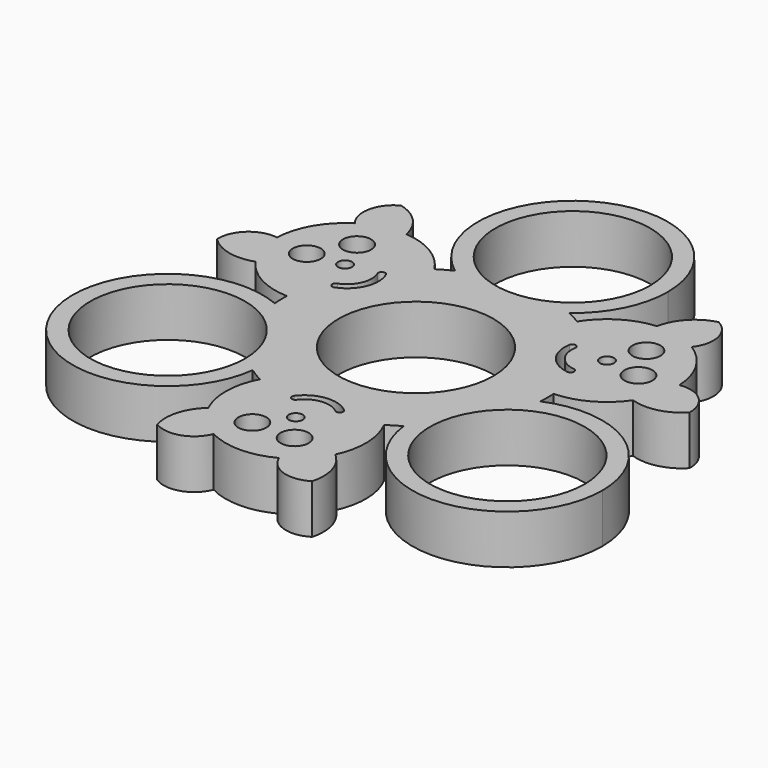
from build123d import *

# Parameters (mm, degrees)
F0_R     = 11.05
F0_R_2   = 1
F0_R_3   = 2
F1_DEPTH = 7


with BuildPart() as f1:
    # F0 (on Top) → F1 (new body)
    with BuildSketch(Plane.XY):
        with BuildLine():
            ThreePointArc((-8.1567643089, 17.1600465037), (0, 14.4299215496), (8.1567643089, 17.1600465037))
            ThreePointArc((8.1567643089, 17.1600465037), (12.1269669824, 21.9351575503), (13.55, 27.9799215496))
            ThreePointArc((13.55, 27.9799215496), (-6.0447639993, 40.106888532), (-8.1567643089, 17.1600465037))
        make_face()
        with Locations((0, 27.9799215496)):
            Circle(F0_R, mode=Mode.SUBTRACT)
        with BuildLine():
            ThreePointArc((37.7813228578, -13.9899607748), (31.7112023358, -2.6915581003), (18.9394183568, -1.5160581476))
            ThreePointArc((18.9394183568, -1.5160581476), (12.4966786365, -7.2149607748), (10.7826540478, -15.6439883561))
            ThreePointArc((10.7826540478, -15.6439883561), (25.0598871658, -27.5146042521), (37.7813228578, -13.9899607748))
        make_face()
        with Locations((24.2313228578, -13.9899607748)):
            Circle(F0_R, mode=Mode.SUBTRACT)
        with BuildLine():
            ThreePointArc((-18.9394183568, -1.5160581476), (-35.9659670791, -20.7649607748), (-10.7826540478, -15.6439883561))
            ThreePointArc((-10.7826540478, -15.6439883561), (-10.7066793805, -14.8185250827), (-10.6813228578, -13.9899607748))
            ThreePointArc((-10.6813228578, -13.9899607748), (-12.9329201833, -6.5100812968), (-18.9394183568, -1.5160581476))
        make_face()
        with Locations((-24.2313228578, -13.9899607748)):
            Circle(F0_R, mode=Mode.SUBTRACT)
        with BuildLine():
            ThreePointArc((4.7600365071, -12.6863924128), (11.1377958922, -7.7169944062), (13.55, 0))
            ThreePointArc((13.55, 0), (13.5004224782, 1.1580556593), (13.352052707, 2.3076369968))
            ThreePointArc((13.352052707, 2.3076369968), (11.7125847278, 6.8130653155), (8.6067198583, 10.4655087445))
            ThreePointArc((8.6067198583, 10.4655087445), (-0.0439952769, 13.549928576), (-8.6744986155, 10.4093983385))
            ThreePointArc((-8.6744986155, 10.4093983385), (-11.7565800048, 6.7368632605), (-13.3667563654, 2.2208836683))
            ThreePointArc((-13.3667563654, 2.2208836683), (-11.7125847278, -6.8130653155), (-4.6775540916, -12.7170353353))
            ThreePointArc((-4.6775540916, -12.7170353353), (0.0439952769, -13.549928576), (4.7600365071, -12.6863924128))
        make_face()
        Circle(F0_R, mode=Mode.SUBTRACT)
        with BuildLine():
            ThreePointArc((-8.7748548257, -16.8523565945), (-7.0337804641, -14.4799478416), (-4.6775540916, -12.7170353353))
            ThreePointArc((-4.6775540916, -12.7170353353), (-11.7125847278, -6.8130653155), (-13.3667563654, 2.2208836683))
            ThreePointArc((-13.3667563654, 2.2208836683), (-16.0640126782, 1.044247953), (-18.9869659815, 0.7036496412))
            ThreePointArc((-18.9869659815, 0.7036496412), (-18.9956424716, -0.4068993604), (-18.9394183568, -1.5160581476))
            ThreePointArc((-18.9394183568, -1.5160581476), (-12.9329201833, -6.5100812968), (-10.6813228578, -13.9899607748))
            ThreePointArc((-10.6813228578, -13.9899607748), (-10.7066793805, -14.8185250827), (-10.7826540478, -15.6439883561))
            ThreePointArc((-10.7826540478, -15.6439883561), (-9.7974015323, -16.2791560965), (-8.7748548257, -16.8523565945))
        make_face()
        with BuildLine():
            ThreePointArc((-8.6744986155, 10.4093983385), (-0.0439952769, 13.549928576), (8.6067198583, 10.4655087445))
            ThreePointArc((8.6067198583, 10.4655087445), (8.9363515943, 13.3897190895), (10.1028614554, 16.0913700602))
            ThreePointArc((10.1028614554, 16.0913700602), (9.1454360529, 16.6541586219), (8.1567643089, 17.1600465037))
            ThreePointArc((8.1567643089, 17.1600465037), (0, 14.4299215496), (-8.1567643089, 17.1600465037))
            ThreePointArc((-8.1567643089, 17.1600465037), (-9.1994619657, 16.6243766663), (-10.2071415116, 16.0254254908))
            ThreePointArc((-10.2071415116, 16.0254254908), (-9.0231124442, 13.3314064874), (-8.6744986155, 10.4093983385))
        make_face()
        with BuildLine():
            ThreePointArc((13.352052707, 2.3076369968), (13.5004224782, 1.1580556593), (13.55, 0))
            ThreePointArc((13.55, 0), (11.1377958922, -7.7169944062), (4.7600365071, -12.6863924128))
            ThreePointArc((4.7600365071, -12.6863924128), (7.1276610839, -14.4339670425), (8.8841045261, -16.7950197013))
            ThreePointArc((8.8841045261, -16.7950197013), (9.8502064187, -16.2472592614), (10.7826540478, -15.6439883561))
            ThreePointArc((10.7826540478, -15.6439883561), (12.4966786365, -7.2149607748), (18.9394183568, -1.5160581476))
            ThreePointArc((18.9394183568, -1.5160581476), (18.9968634979, -0.3452205697), (18.9819963373, 0.8269311037))
            ThreePointArc((18.9819963373, 0.8269311037), (16.0568929083, 1.1485413542), (13.352052707, 2.3076369968))
        make_face()
        with BuildLine():
            ThreePointArc((8.6067198583, 10.4655087445), (11.7125847278, 6.8130653155), (13.352052707, 2.3076369968))
            ThreePointArc((13.352052707, 2.3076369968), (16.0568929083, 1.1485413542), (18.9819963373, 0.8269311037))
            ThreePointArc((18.9819963373, 0.8269311037), (23.4304012279, 2.0634206387), (26.8491945381, 5.1664940737))
            ThreePointArc((26.8491945381, 5.1664940737), (28.2136339107, 8.0652639574), (28.5913217984, 11.246759439))
            ThreePointArc((28.5913217984, 11.246759439), (27.2444210774, 15.8477419457), (23.9108601236, 19.2931088268))
            ThreePointArc((23.9108601236, 19.2931088268), (20.9586164714, 20.5376244184), (17.7643170713, 20.7846324805))
            ThreePointArc((17.7643170713, 20.7846324805), (13.3768238274, 19.3468858147), (10.1028614554, 16.0913700602))
            ThreePointArc((10.1028614554, 16.0913700602), (8.9363515943, 13.3897190895), (8.6067198583, 10.4655087445))
        make_face()
        with BuildLine():
            ThreePointArc((12.9505363993, 11.1563030517), (13.5264237307, 11.5666124247), (13.9367331037, 10.9907250933))
            ThreePointArc((13.9367331037, 10.9907250933), (14.5872544025, 8.309022028), (16.9762482984, 6.9279291798))
            ThreePointArc((16.9762482984, 6.9279291798), (17.4128850212, 6.3717382302), (16.8566940716, 5.9351015075))
            ThreePointArc((16.8566940716, 5.9351015075), (13.7865377349, 7.7099787756), (12.9505363993, 11.1563030517))
        make_face(mode=Mode.SUBTRACT)
        with Locations((18.6004471086, 10.8196494619)):
            Circle(F0_R_2, mode=Mode.SUBTRACT)
        with Locations((23.5651301856, 10.2264193675)):
            Circle(F0_R_3, mode=Mode.SUBTRACT)
        with Locations((20.539148591, 15.4284927617)):
            Circle(F0_R_3, mode=Mode.SUBTRACT)
        with BuildLine():
            ThreePointArc((28.5913217984, 11.246759439), (28.2136339107, 8.0652639574), (26.8491945381, 5.1664940737))
            ThreePointArc((26.8491945381, 5.1664940737), (30.4593772075, 4.9963032192), (33.5974550448, 6.789303866))
            ThreePointArc((33.5974550448, 6.789303866), (32.1424199084, 10.1950675609), (28.5913217984, 11.246759439))
        make_face()
        with BuildLine():
            ThreePointArc((22.5110596529, 25.8483234616), (19.4011285413, 24.00693477), (17.7643170713, 20.7846324805))
            ThreePointArc((17.7643170713, 20.7846324805), (20.9586164714, 20.5376244184), (23.9108601236, 19.2931088268))
            ThreePointArc((23.9108601236, 19.2931088268), (24.7522139126, 22.8998355139), (22.5110596529, 25.8483234616))
        make_face()
        with BuildLine():
            ThreePointArc((-13.3667563654, 2.2208836683), (-11.7565800048, 6.7368632605), (-8.6744986155, 10.4093983385))
            ThreePointArc((-8.6744986155, 10.4093983385), (-9.0231124442, 13.3314064874), (-10.2071415116, 16.0254254908))
            ThreePointArc((-10.2071415116, 16.0254254908), (-13.5021753057, 19.2596123649), (-17.8989123854, 20.6688375043))
            ThreePointArc((-17.8989123854, 20.6688375043), (-21.0915404306, 20.401091721), (-24.0356402836, 19.1374312857))
            ThreePointArc((-24.0356402836, 19.1374312857), (-27.3467576563, 15.6704897916), (-28.6637524238, 11.06085788))
            ThreePointArc((-28.6637524238, 11.06085788), (-28.2654127155, 7.8818820832), (-26.8821782721, 4.9920336244))
            ThreePointArc((-26.8821782721, 4.9920336244), (-23.4433065133, 1.9112263491), (-18.9869659815, 0.7036496412))
            ThreePointArc((-18.9869659815, 0.7036496412), (-16.0640126782, 1.044247953), (-13.3667563654, 2.2208836683))
        make_face()
        with Locations((-23.6310409692, 10.0731780711)):
            Circle(F0_R_3, mode=Mode.SUBTRACT)
        with Locations((-20.6389040547, 15.2947917005)):
            Circle(F0_R_3, mode=Mode.SUBTRACT)
        with BuildLine():
            ThreePointArc((-13.5682957153, 11.6307745361), (-13.5703063498, 8.0845025208), (-16.1369100547, 5.6373419886))
            ThreePointArc((-16.1369100547, 5.6373419886), (-16.7801920608, 5.9309203608), (-16.4866136886, 6.5742023669))
            ThreePointArc((-16.4866136886, 6.5742023669), (-14.4894513581, 8.47842187), (-14.4878868145, 11.2378976975))
            ThreePointArc((-14.4878868145, 11.2378976975), (-14.2245296842, 11.8941316664), (-13.5682957153, 11.6307745361))
        make_face(mode=Mode.SUBTRACT)
        with Locations((-18.6703148483, 10.6986349868)):
            Circle(F0_R_2, mode=Mode.SUBTRACT)
        with BuildLine():
            ThreePointArc((-24.0356402836, 19.1374312857), (-21.0915404306, 20.401091721), (-17.8989123854, 20.6688375043))
            ThreePointArc((-17.8989123854, 20.6688375043), (-19.5566141165, 23.8804428355), (-22.6784371444, 25.7015976383))
            ThreePointArc((-22.6784371444, 25.7015976383), (-24.9003974552, 22.7386183993), (-24.0356402836, 19.1374312857))
        make_face()
        with BuildLine():
            ThreePointArc((-33.6408345895, 6.5709877947), (-30.4911796484, 4.7984027938), (-26.8821782721, 4.9920336244))
            ThreePointArc((-26.8821782721, 4.9920336244), (-28.2654127155, 7.8818820832), (-28.6637524238, 11.06085788))
            ThreePointArc((-28.6637524238, 11.06085788), (-32.2079462538, 9.9861282912), (-33.6408345895, 6.5709877947))
        make_face()
        with BuildLine():
            ThreePointArc((8.8841045261, -16.7950197013), (7.1276610839, -14.4339670425), (4.7600365071, -12.6863924128))
            ThreePointArc((4.7600365071, -12.6863924128), (0.0439952769, -13.549928576), (-4.6775540916, -12.7170353353))
            ThreePointArc((-4.6775540916, -12.7170353353), (-7.0337804641, -14.4799478416), (-8.7748548257, -16.8523565945))
            ThreePointArc((-8.7748548257, -16.8523565945), (-9.9282259222, -21.3230330036), (-8.9502821528, -25.835331578))
            ThreePointArc((-8.9502821528, -25.835331578), (-7.12209348, -28.4663556784), (-4.5556815148, -30.3841907247))
            ThreePointArc((-4.5556815148, -30.3841907247), (0.1023365788, -31.5182317373), (4.7528923002, -30.3539667068))
            ThreePointArc((4.7528923002, -30.3539667068), (7.3067962441, -28.4195065016), (9.1178612008, -25.7766661049))
            ThreePointArc((9.1178612008, -25.7766661049), (10.0664826859, -21.2581121638), (8.8841045261, -16.7950197013))
        make_face()
        with Locations((-2.9262261308, -25.5212110679)):
            Circle(F0_R_3, mode=Mode.SUBTRACT)
        with BuildLine():
            ThreePointArc((3.1863736554, -16.7936450403), (3.2537683301, -17.4975327855), (2.549880585, -17.5649274602))
            ThreePointArc((2.549880585, -17.5649274602), (-0.0978030444, -16.787443898), (-2.4883614839, -18.1658268773))
            ThreePointArc((-2.4883614839, -18.1658268773), (-3.1883553369, -18.2658698966), (-3.2883983563, -17.5658760436))
            ThreePointArc((-3.2883983563, -17.5658760436), (-0.2162313851, -15.7944812964), (3.1863736554, -16.7936450403))
        make_face(mode=Mode.SUBTRACT)
        with Locations((3.0918923782, -25.5016708328)):
            Circle(F0_R_3, mode=Mode.SUBTRACT)
        with Locations((0.0698677398, -21.5182844487)):
            Circle(F0_R_2, mode=Mode.SUBTRACT)
        with BuildLine():
            ThreePointArc((-4.5556815148, -30.3841907247), (-7.12209348, -28.4663556784), (-8.9502821528, -25.835331578))
            ThreePointArc((-8.9502821528, -25.835331578), (-10.9027630909, -28.8767460547), (-10.9190179004, -32.4909015044))
            ThreePointArc((-10.9190179004, -32.4909015044), (-7.2420224532, -32.9336859602), (-4.5556815148, -30.3841907247))
        make_face()
        with BuildLine():
            ThreePointArc((11.1297749366, -32.4193112564), (11.0900511072, -28.8053375638), (9.1178612008, -25.7766661049))
            ThreePointArc((9.1178612008, -25.7766661049), (7.3067962441, -28.4195065016), (4.7528923002, -30.3539667068))
            ThreePointArc((4.7528923002, -30.3539667068), (7.4557323412, -32.8859638051), (11.1297749366, -32.4193112564))
        make_face()
    extrude(amount=F1_DEPTH)


solid = f1.part
